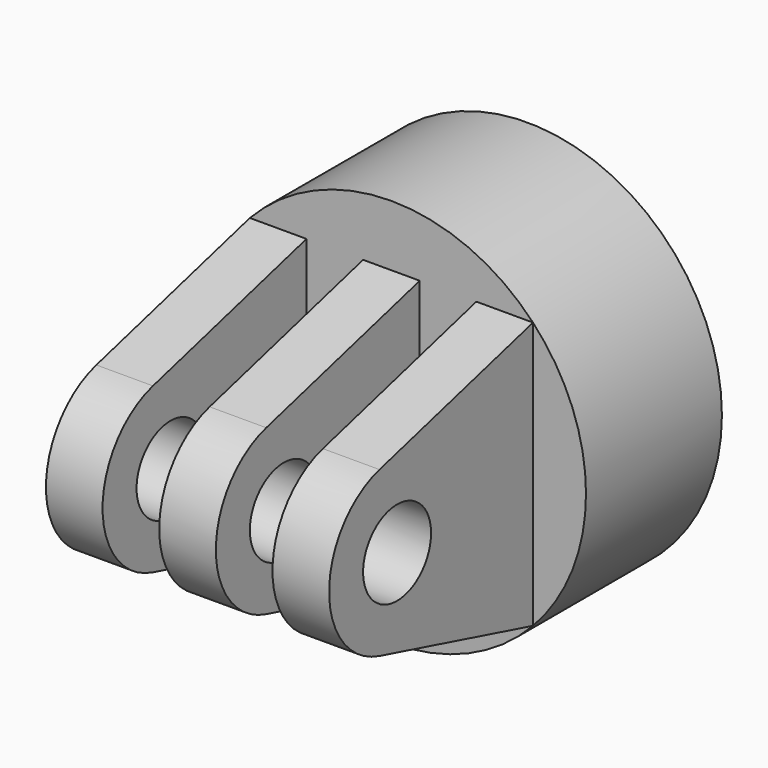
from build123d import *

# Parameters (mm, degrees)
F0_R      = 3.175
F1_DEPTH  = 10.5833333333
F2_R      = 14.544643177
F3_DEPTH  = 12.7
F4_W      = 4.2333333333
F4_H      = 19.05
F5_DEPTH  = 76.2
F6_R      = 6.35
F7_DEPTH  = 0.762
F8_R      = 4.7625
F9_DEPTH  = 3.175
F11_D     = 5.4102
F11_DEPTH = 13.97
F11_TIP   = 1.6253880605


with BuildPart() as f1:
    # F0 (on Right) → F1 (new body, symmetric)
    with BuildSketch(Plane.YZ):
        with BuildLine():
            ThreePointArc((-14.3435009364, 6.1336289969), (-19.05, 0), (-14.3435009364, -6.1336289969))
            Line((-14.3435009364, -6.1336289969), (0, -9.9769584895))
            Line((0, -9.9769584895), (0, 9.9769584895))
            Line((0, 9.9769584895), (-14.3435009364, 6.1336289969))
        make_face()
        with Locations((-12.7, 0)):
            Circle(F0_R, mode=Mode.SUBTRACT)
    extrude(amount=F1_DEPTH, both=True)

    # F2 (on Front) → F3 (join)
    with BuildSketch(Plane.XZ):
        Circle(F2_R)
    extrude(amount=-F3_DEPTH)

    # F4 (on Top) → F5 (cut, symmetric)
    with BuildSketch(Plane.XY):
        with Locations((-4.2333333333, -9.525)):
            Rectangle(F4_W, F4_H)
        with Locations((4.2333333333, -9.525)):
            Rectangle(F4_W, F4_H)
    extrude(amount=F5_DEPTH, both=True, mode=Mode.SUBTRACT)

    # F6 (on face) → F7 (join)
    with BuildSketch(Plane(origin=(0, 12.7, 0), x_dir=(-1, 0, 0), z_dir=(0, 1, 0))):
        Circle(F6_R)
    extrude(amount=F7_DEPTH)

    # F8 (on face) → F9 (join)
    with BuildSketch(Plane(origin=(0, 13.462, 0), x_dir=(-1, 0, 0), z_dir=(0, 1, 0))):
        Circle(F8_R)
    extrude(amount=F9_DEPTH)

    # F11
    with Locations(Plane(origin=(0, 16.637, 0), x_dir=(-1, 0, 0), z_dir=(0, 1, 0))):
        with Locations((0, 0)):
            Hole(F11_D / 2, depth=F11_DEPTH)
            with Locations((0, 0, -(F11_DEPTH + F11_TIP / 2))):  # 118° drill point
                Cone(0, F11_D / 2, F11_TIP, mode=Mode.SUBTRACT)


solid = f1.part
